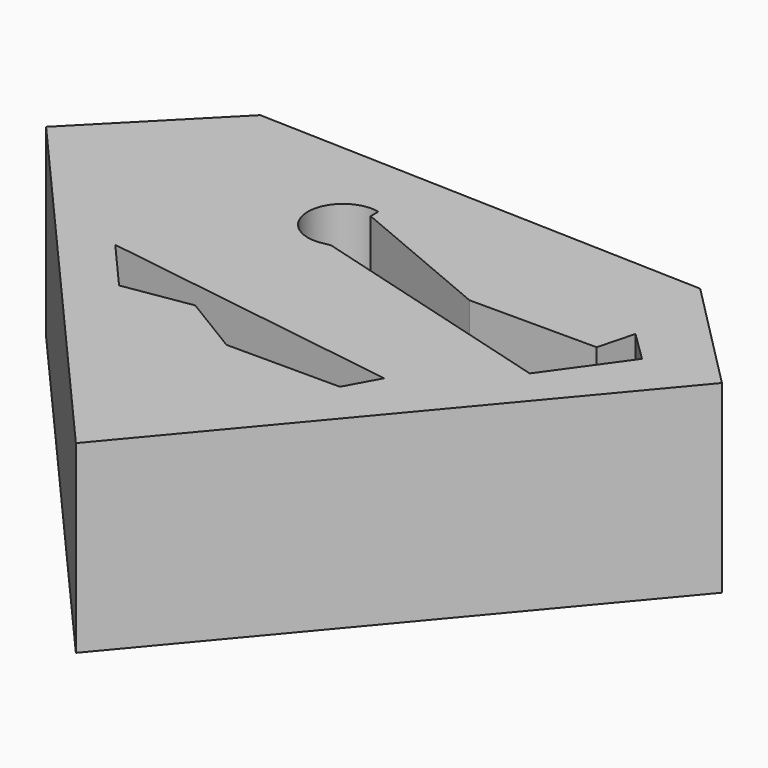
from build123d import *

# Parameters (mm, degrees)
F1_DEPTH = 25


with BuildPart() as f1:
    # F0 (on Top) → F1 (new body)
    with BuildSketch(Plane.XY):
        Polygon((29.450655, 38.830608), (-31.693287, 40.796861), (-47.707178, 24.563687), (0, -30.02912), (44.736642, 23.39904), align=None)
        Polygon((-18.988272, 1.016635), (-25.120867, 8.036693), (16.17283, 1.93582), (13.741748, -2.51128), (-1.613551, -2.51128), (-9.845408, 2.483913), align=None, mode=Mode.SUBTRACT)
        with BuildLine():
            ThreePointArc((-8.043149, 22.062276), (-13.957743, 26.639662), (-8.133593, 31.331588))
            Line((-8.133593, 31.331588), (-8.133593, 30.034255))
            Line((-8.133593, 30.034255), (12.068318, 21.51745))
            Line((12.068318, 21.51745), (29.276887, 21.51745))
            Line((29.276887, 21.51745), (30.583519, 26.464345))
            Line((30.583519, 26.464345), (34.680177, 22.439042))
            Line((34.680177, 22.439042), (27.503051, 12.411782))
            Line((27.503051, 12.411782), (-7.211979, 22.195661))
            Line((-7.211979, 22.195661), (-8.043149, 22.062276))
        make_face(mode=Mode.SUBTRACT)
    extrude(amount=F1_DEPTH)


solid = f1.part
